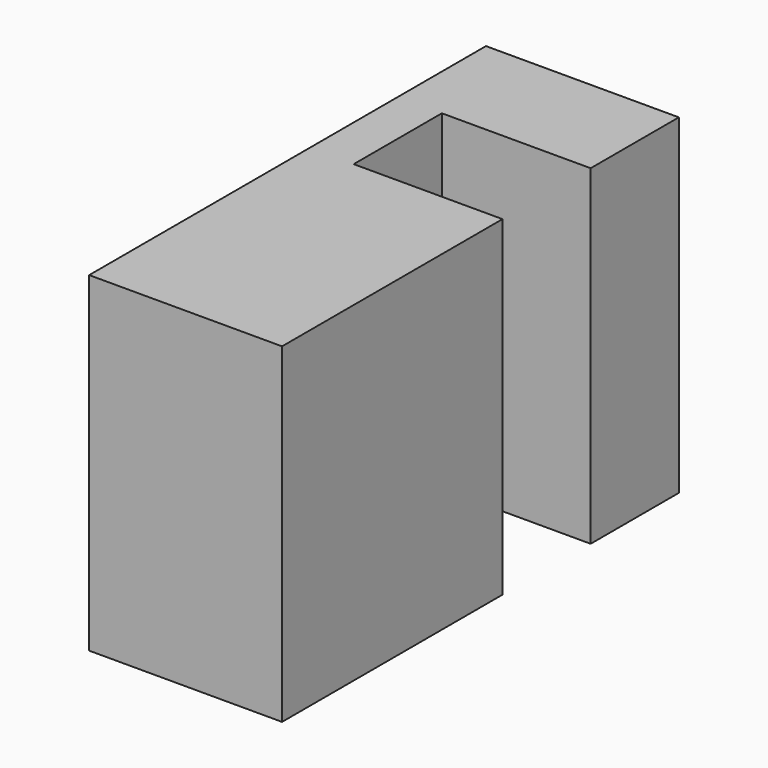
from build123d import *

# Parameters (mm, degrees)
PAD_DEPTH = 6


with BuildPart() as part:
    # Sketch → Pad (new body)
    with BuildSketch(Plane.XY):
        Polygon((0, 0), (0, 9), (3.5, 9), (3.5, 7), (0.8, 7), (0.8, 5), (3.5, 5), (3.5, 0), align=None)
    extrude(amount=PAD_DEPTH)


solid = part.part
